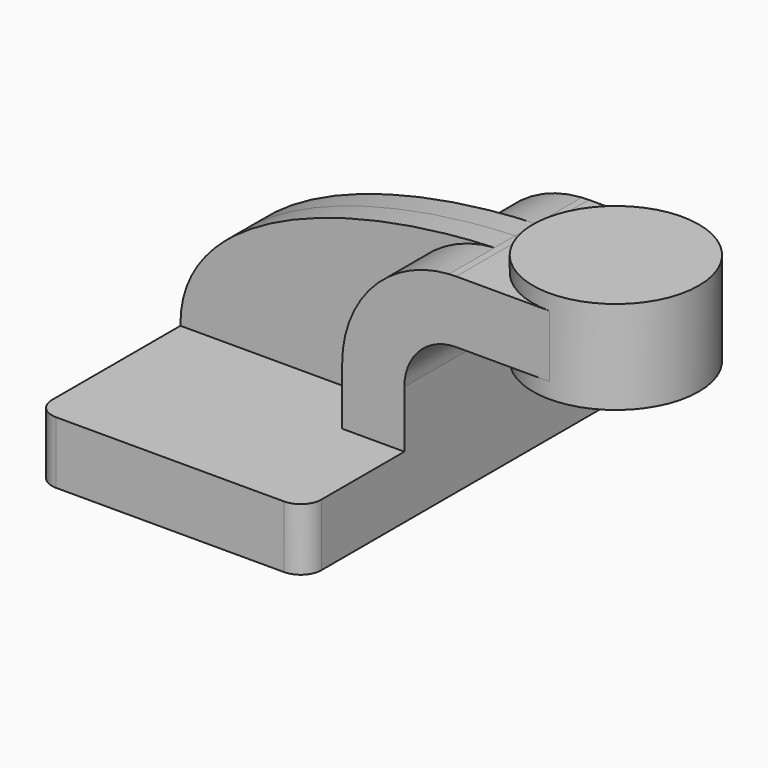
from build123d import *

# Parameters (mm, degrees)
F1_DEPTH = 63.5
F2_DEPTH = 7.9375
F0_W     = 25.4
F0_H     = 19.05
F3_DEPTH = 25.4
F5_R     = 6.35


with BuildPart() as f1:
    # F0 (on Front) → F1 (new body, symmetric)
    with BuildSketch(Plane.XZ):
        Polygon((41.275, -9.525), (41.275, 9.525), (22.225, 9.525), (-41.275, 9.525), (-41.275, -9.525), align=None)
    extrude(amount=F1_DEPTH, both=True)

    # F0 (on Front) → F2 (join, symmetric)
    with BuildSketch(Plane.XZ):
        with BuildLine():
            Line((-41.275, 9.525), (22.225, 9.525))
            Line((22.225, 9.525), (22.225, 27.0002))
            ThreePointArc((22.225, 27.0002), (31.6817510104, 50.8983990619), (54.9307362006, 61.8546185605))
            add(Edge.make_bspline(
                [(-41.275, 9.525), (-41.7675076432, 41.9812705622), (6.5603954345, 60.0669286801), (54.9307362006, 61.8546185605)],
                knots=[0, 0, 0, 0, 109.8248144815, 109.8248144815, 109.8248144815, 109.8248144815], degree=3))
        make_face()
    extrude(amount=F2_DEPTH, both=True)

    # F0 (on Front) → F3 (join, symmetric)
    with BuildSketch(Plane.XZ):
        with BuildLine():
            Line((22.225, 9.525), (41.275, 9.525))
            Line((41.275, 9.525), (41.275, 27.0002))
            ThreePointArc((41.275, 27.0002), (45.9246798487, 38.2255201513), (57.15, 42.8752))
            Line((57.15, 42.8752), (60.325, 42.8752))
            Line((60.325, 42.8752), (60.325, 61.9252))
            Line((60.325, 61.9252), (57.15, 61.9252))
            add(Edge.make_bspline(
                [(54.9307362006, 61.8546185605), (55.6705390451, 61.8819604819), (56.4103518168, 61.905489927), (57.15, 61.9252)],
                knots=[109.8248144815, 109.8248144815, 109.8248144815, 109.8248144815, 111.5045361635, 111.5045361635, 111.5045361635, 111.5045361635], degree=3))
            ThreePointArc((54.9307362006, 61.8546185605), (31.6817510104, 50.8983990619), (22.225, 27.0002))
            Line((22.225, 27.0002), (22.225, 9.525))
        make_face()
        with Locations((73.025, 52.4002)):
            Rectangle(F0_W, F0_H)
    extrude(amount=F3_DEPTH, both=True)

    # F0 (on Front) → F4 (revolve)
    with BuildSketch(Plane.XZ):
        Polygon((85.725, 61.9252), (85.725, 42.8752), (85.725, 38.1), (111.125, 38.1), (111.125, 66.675), (85.725, 66.675), align=None)
    revolve(axis=Axis((85.725, 0, 52.3875), (0, 0, 1)))

    # F5
    f5_edges = [f1.edges().sort_by_distance(p)[0] for p in [
        (41.275, -63.5, 0),
        (-41.275, -63.5, 0),
        (-41.275, 63.5, 0),
        (41.275, 63.5, 0),
    ]]
    fillet(f5_edges, radius=F5_R)


solid = f1.part
